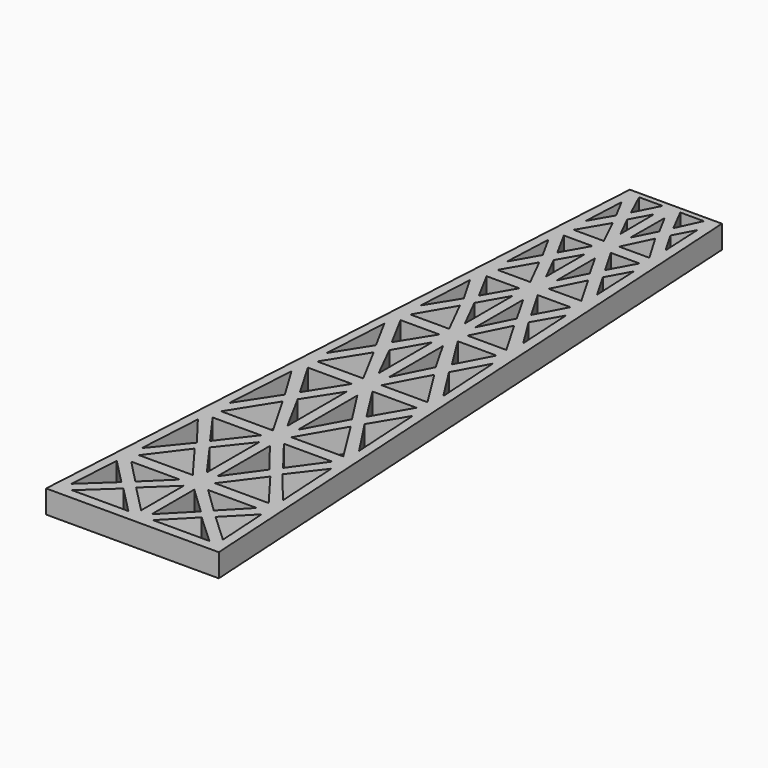
from build123d import *

# Parameters (mm, degrees)
F1_DEPTH = 2


with BuildPart() as f1:
    # F0 (on Top) → F1 (new body)
    with BuildSketch(Plane.XY):
        Polygon((4, 25.754048), (0, 25.754048), (-4, 25.754048), (-7.5, -33.245952), (0, -33.245952), (7.5, -33.245952), align=None)
        Polygon((-4.089832, -29.330796), (-6.573987, -31.641873), (-6.292557, -27.084958), align=None, mode=Mode.SUBTRACT)
        Polygon((-6.13311, -24.568204), (-5.796553, -18.894804), (-3.715754, -21.609863), align=None, mode=Mode.SUBTRACT)
        Polygon((-1.067552, -32.354102), (-5.965223, -32.354102), (-3.397664, -29.978383), align=None, mode=Mode.SUBTRACT)
        Polygon((-3.404538, -28.675417), (-5.447618, -26.563399), (-1.229849, -26.563399), align=None, mode=Mode.SUBTRACT)
        Polygon((-0.45485, -31.733501), (-2.811431, -29.330796), (-0.45485, -27.101166), align=None, mode=Mode.SUBTRACT)
        Polygon((-5.633629, -25.496741), (-3.286195, -22.381087), (-0.96125, -25.496741), align=None, mode=Mode.SUBTRACT)
        Polygon((-3.17182, -20.85387), (-5.191417, -18.046699), (-0.996083, -18.046699), align=None, mode=Mode.SUBTRACT)
        Polygon((-2.601866, -21.61763), (-0.45485, -18.894804), (-0.45485, -24.601909), align=None, mode=Mode.SUBTRACT)
        Polygon((-3.465, -12.372064), (-5.633629, -15.68081), (-5.260959, -9.398653), align=None, mode=Mode.SUBTRACT)
        Polygon((-0.799204, -16.985185), (-5.30343, -16.985185), (-2.959617, -13.249483), align=None, mode=Mode.SUBTRACT)
        Polygon((-2.357842, -12.361948), (-0.45485, -9.398653), (-0.45485, -15.858355), align=None, mode=Mode.SUBTRACT)
        Polygon((-2.892819, -11.457191), (-4.714794, -8.298798), (-0.8917, -8.298798), align=None, mode=Mode.SUBTRACT)
        Polygon((-0.799204, -7.197334), (-4.789895, -7.197334), (-2.633869, -3.756868), align=None, mode=Mode.SUBTRACT)
        Polygon((2.811431, -29.330796), (0.45485, -31.733501), (0.45485, -27.101166), align=None, mode=Mode.SUBTRACT)
        Polygon((5.965223, -32.354102), (1.067552, -32.354102), (3.397664, -29.978383), align=None, mode=Mode.SUBTRACT)
        Polygon((5.447618, -26.563399), (3.404538, -28.675417), (1.229849, -26.563399), align=None, mode=Mode.SUBTRACT)
        Polygon((0.45485, -18.894804), (2.601866, -21.61763), (0.45485, -24.601909), align=None, mode=Mode.SUBTRACT)
        Polygon((3.286195, -22.381087), (5.633629, -25.496741), (0.96125, -25.496741), align=None, mode=Mode.SUBTRACT)
        Polygon((0.996083, -18.046699), (5.191417, -18.046699), (3.17182, -20.85387), align=None, mode=Mode.SUBTRACT)
        Polygon((6.292557, -27.084958), (6.573987, -31.641873), (4.089832, -29.330796), align=None, mode=Mode.SUBTRACT)
        Polygon((5.796553, -18.894804), (6.13311, -24.568204), (3.715754, -21.609863), align=None, mode=Mode.SUBTRACT)
        Polygon((2.357842, -12.361948), (0.45485, -15.858355), (0.45485, -9.398653), align=None, mode=Mode.SUBTRACT)
        Polygon((0.799204, -16.985185), (2.959617, -13.249483), (5.30343, -16.985185), align=None, mode=Mode.SUBTRACT)
        Polygon((0.8917, -8.298798), (4.714794, -8.298798), (2.892819, -11.457191), align=None, mode=Mode.SUBTRACT)
        Polygon((4.789895, -7.197334), (0.799204, -7.197334), (2.633869, -3.756868), align=None, mode=Mode.SUBTRACT)
        Polygon((3.465, -12.372064), (5.260959, -9.398653), (5.633629, -15.68081), align=None, mode=Mode.SUBTRACT)
        Polygon((-5.060531, -5.828136), (-4.714794, 0), (-3.17182, -2.843706), align=None, mode=Mode.SUBTRACT)
        Polygon((-2.611527, -1.832106), (-4.170251, 1.077535), (-0.799204, 1.077535), align=None, mode=Mode.SUBTRACT)
        Polygon((-2.009785, -2.843706), (-0.45485, -0.113241), (-0.45485, -5.948542), align=None, mode=Mode.SUBTRACT)
        Polygon((-4.450015, 3.616143), (-4.170251, 8.613745), (-2.811431, 6.248467), align=None, mode=Mode.SUBTRACT)
        Polygon((-0.799204, 2.134794), (-4.170251, 2.134794), (-2.357842, 5.247023), align=None, mode=Mode.SUBTRACT)
        Polygon((-2.271924, 7.201679), (-3.641225, 9.758234), (-0.799204, 9.758234), align=None, mode=Mode.SUBTRACT)
        Polygon((-1.841009, 6.179651), (-0.45485, 8.613745), (-0.45485, 3.411822), align=None, mode=Mode.SUBTRACT)
        Polygon((-3.910219, 12.291129), (-3.715754, 16.559127), (-2.614767, 14.565943), align=None, mode=Mode.SUBTRACT)
        Polygon((-0.799204, 10.940004), (-3.641225, 10.940004), (-2.120922, 13.579161), align=None, mode=Mode.SUBTRACT)
        Polygon((-2.069376, 15.469204), (-3.286195, 17.699626), (-0.799204, 17.699626), align=None, mode=Mode.SUBTRACT)
        Polygon((-0.45485, 12.224307), (-1.568874, 14.448747), (-0.45485, 16.402385), align=None, mode=Mode.SUBTRACT)
        Polygon((-0.661599, 18.764926), (-3.286195, 18.764926), (-1.841009, 21.210955), align=None, mode=Mode.SUBTRACT)
        Polygon((-3.465, 20.303925), (-3.286195, 23.963032), (-2.357842, 22.213539), align=None, mode=Mode.SUBTRACT)
        Polygon((-1.841009, 23.178602), (-2.811431, 25.27616), (-0.76812, 25.27616), align=None, mode=Mode.SUBTRACT)
        Polygon((-1.39996, 22.213539), (-0.45485, 23.963032), (-0.429307, 20.278619), align=None, mode=Mode.SUBTRACT)
        Polygon((0.45485, -5.948542), (0.45485, -0.113241), (2.009785, -2.843706), align=None, mode=Mode.SUBTRACT)
        Polygon((0.799204, 1.077535), (4.170251, 1.077535), (2.611527, -1.832106), align=None, mode=Mode.SUBTRACT)
        Polygon((0.45485, 8.613745), (1.841009, 6.179651), (0.45485, 3.411822), align=None, mode=Mode.SUBTRACT)
        Polygon((0.799204, 2.134794), (2.357842, 5.247023), (4.170251, 2.134794), align=None, mode=Mode.SUBTRACT)
        Polygon((2.811431, 6.248467), (4.170251, 8.613745), (4.450015, 3.616143), align=None, mode=Mode.SUBTRACT)
        Polygon((2.271924, 7.201679), (0.799204, 9.758234), (3.641225, 9.758234), align=None, mode=Mode.SUBTRACT)
        Polygon((4.714794, 0), (5.060531, -5.828136), (3.17182, -2.843706), align=None, mode=Mode.SUBTRACT)
        Polygon((1.568874, 14.448747), (0.45485, 12.224307), (0.45485, 16.402385), align=None, mode=Mode.SUBTRACT)
        Polygon((0.799204, 10.940004), (2.120922, 13.579161), (3.641225, 10.940004), align=None, mode=Mode.SUBTRACT)
        Polygon((3.910219, 12.291129), (2.614767, 14.565943), (3.715754, 16.559127), align=None, mode=Mode.SUBTRACT)
        Polygon((0.799204, 17.699626), (3.286195, 17.699626), (2.069376, 15.469204), align=None, mode=Mode.SUBTRACT)
        Polygon((0.45485, 23.963032), (1.39996, 22.213539), (0.429307, 20.278619), align=None, mode=Mode.SUBTRACT)
        Polygon((0.76812, 25.27616), (2.811431, 25.27616), (1.841009, 23.178602), align=None, mode=Mode.SUBTRACT)
        Polygon((0.661599, 18.764926), (1.841009, 21.210955), (3.286195, 18.764926), align=None, mode=Mode.SUBTRACT)
        Polygon((3.465, 20.303925), (2.357842, 22.213539), (3.286195, 23.963032), align=None, mode=Mode.SUBTRACT)
    extrude(amount=F1_DEPTH)


solid = f1.part
